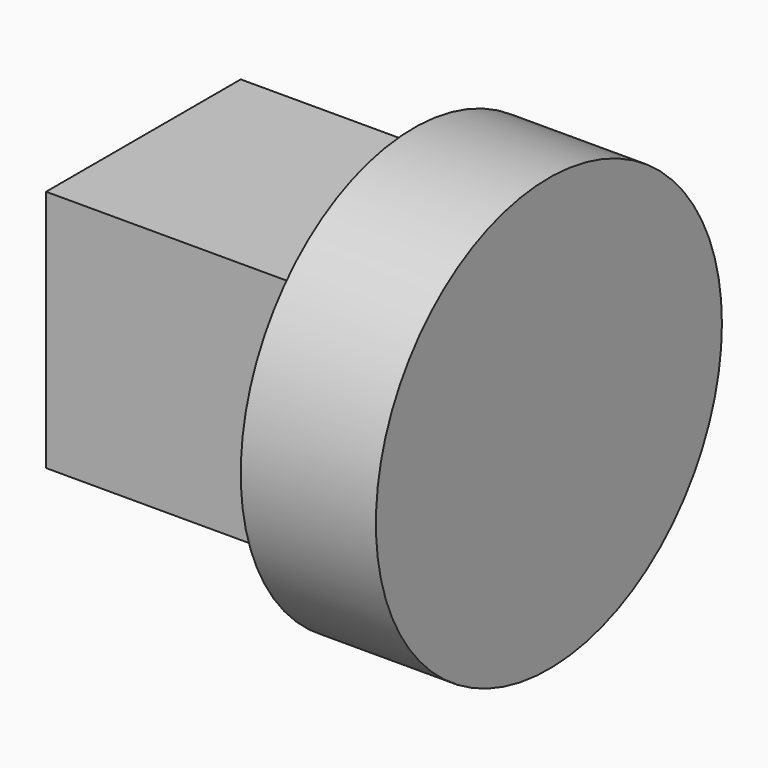
from build123d import *

# Parameters (mm, degrees)
F1_R     = 40
F2_DEPTH = 25
F3_W     = 45
F3_H     = 45
F4_DEPTH = 50


with BuildPart() as f2:
    # F1 (on offset) → F2 (new body)
    with BuildSketch(Plane.YZ.offset(100)):
        Circle(F1_R)
    extrude(amount=F2_DEPTH)

    # F3 (on face) → F4 (join)
    with BuildSketch(Plane(origin=(100, 0, 0), x_dir=(0, -1, 0), z_dir=(-1, 0, 0))):
        Rectangle(F3_W, F3_H)
    extrude(amount=F4_DEPTH)


solid = f2.part
